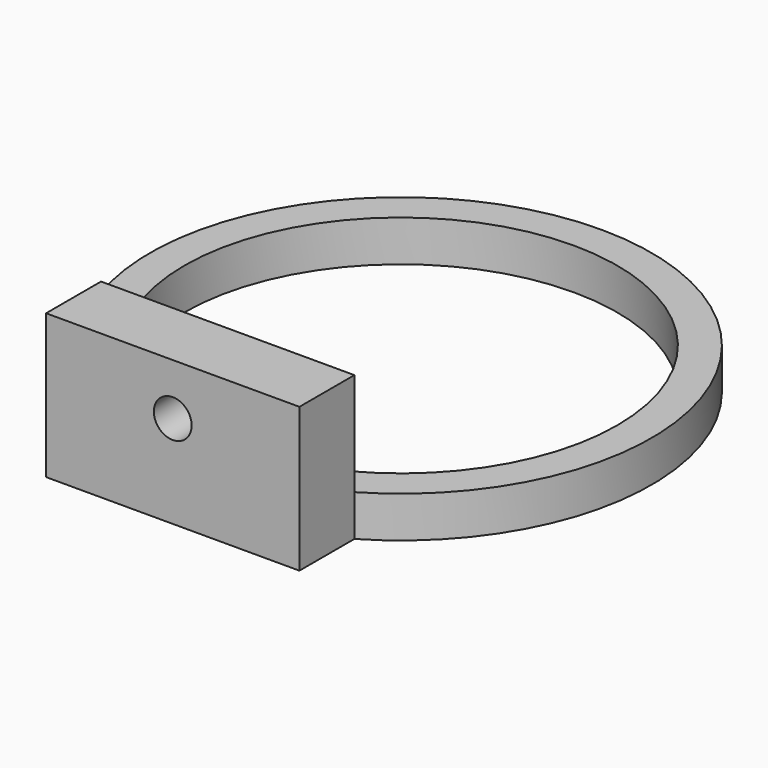
from build123d import *

# Parameters (mm, degrees)
SKETCH_R         = 31.5
PAD_DEPTH        = 6
SKETCH001_W      = 36.878178
SKETCH001_H      = 10
PAD001_DEPTH     = 15
HOLE_D           = 5.5
HOLE_DEPTH       = 25
HOLE_CBORE_D     = 10.1
HOLE_CBORE_DEPTH = 4.1


with BuildPart() as part:
    # Sketch → Pad (new body)
    with BuildSketch(Plane.XY):
        with BuildLine():
            ThreePointArc((18.439089, -31.5), (0, 36.5), (-18.439089, -31.5))
            Line((-18.439089, -31.5), (-18.439089, -41.5))
            Line((-18.439089, -41.5), (18.439089, -41.5))
            Line((18.439089, -41.5), (18.439089, -31.5))
        make_face()
        Circle(SKETCH_R, mode=Mode.SUBTRACT)
    extrude(amount=PAD_DEPTH)

    # Sketch001 (on Face7 of Pad) → Pad001 (join)
    with BuildSketch(Plane.XY.offset(6)):
        with Locations((0, -36.5)):
            Rectangle(SKETCH001_W, SKETCH001_H)
    extrude(amount=PAD001_DEPTH)

    # Hole
    with Locations(Plane(origin=(0, -31.5, 0), x_dir=(-1, 0, 0), z_dir=(0, 1, 0))):
        with Locations((0, 13.5)):
            CounterBoreHole(HOLE_D / 2, HOLE_CBORE_D / 2, HOLE_CBORE_DEPTH, depth=HOLE_DEPTH)


solid = part.part
